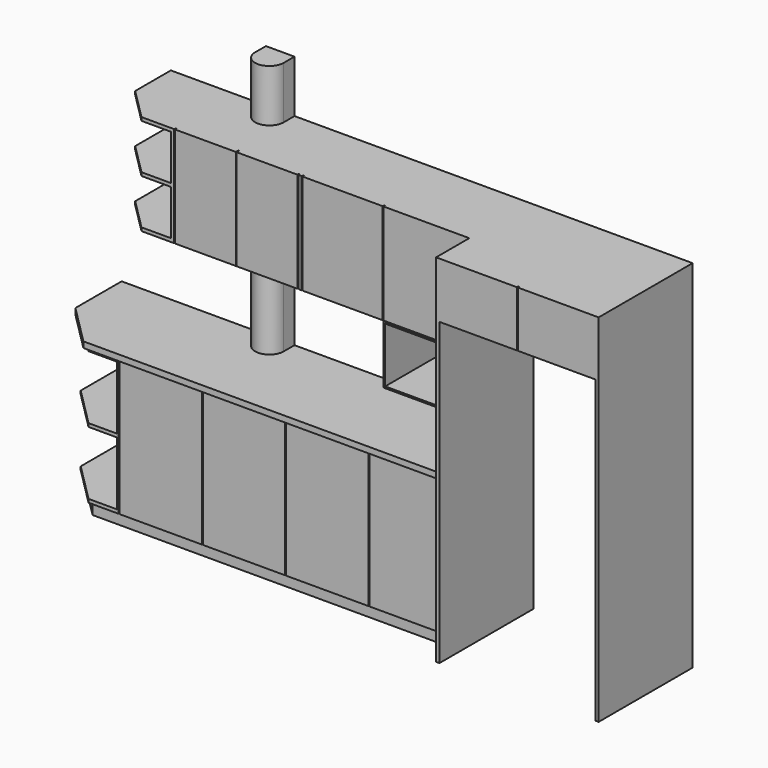
from build123d import *

# Parameters (mm, degrees)
F1_DEPTH  = 880
F3_DEPTH  = 35
F5_DEPTH  = 70
F8_DEPTH  = 2110
F9_W      = 696
F9_H      = 330
F10_DEPTH = 923
F11_W     = 20
F11_H     = 696
F12_DEPTH = 2110
F13_W     = 5
F13_H     = 149.3338942528
F14_DEPTH = 2110.001
F17_DEPTH = 595
F21_DEPTH = 267.5
F24_DEPTH = 267.5
F25_W     = 5
F25_H     = 26.3705801964
F25_H_2   = 30.4196077585
F25_H_3   = 29.1783836484
F26_DEPTH = 600
F27_W     = 508.3196067382
F27_H     = 450
F28_DEPTH = 350
F29_W     = 16.0011241957
F29_H     = 3
F30_DEPTH = 508.31961
F31_W     = 488.3196067382
F31_H     = 327
F32_DEPTH = 440
F33_W     = 560
F33_H     = 375
F34_DEPTH = 400
F35_W     = 5
F35_H     = 19.7571682371
F35_H_2   = 24.0503801033
F35_H_3   = 23.9126509987
F35_H_4   = 22.7143368684
F35_H_5   = 21.7149001546
F36_DEPTH = 880
F38_DEPTH = 2420


with BuildPart() as f1:
    # F0 (on Top) → F1 (new body)
    with BuildSketch(Plane.XY):
        Polygon((-2168, 0), (0, 0), (0, 560), (-1800, 560), (-2400, 560), (-2400, 232), align=None)
    extrude(amount=F1_DEPTH)

    # F4 (on face) → F5 (cut)
    with BuildSketch(Plane(origin=(0, 0, 0), x_dir=(1, 0, 0), z_dir=(0, 0, -1))):
        Polygon((-2400, -560), (-2380, -560), (-2380, -239.8957603676), (-2160.1042396324, -20), (0, -20), (0, 0), (-2168, 0), (-2400, -232), align=None)
    extrude(amount=-F5_DEPTH, mode=Mode.SUBTRACT)


with BuildPart() as f3:
    # F2 (on face) → F3 (new body)
    with BuildSketch(Plane.XY.offset(880)):
        Polygon((0, -20), (0, 560), (-2420, 560), (-2420, 217.6867183745), (-2182.3132816255, -20), align=None)
    extrude(amount=F3_DEPTH)


with BuildPart() as f1_1:
    add(f1.part)

    # F6: union F3
    add(f3.part)

    # F7 (on Top) → F8 (join)
    with BuildSketch(Plane.XY):
        Polygon((0, 560), (0, 20), (0, 0), (0, -20), (0, -136), (20, -136), (20, 560), align=None)
    extrude(amount=F8_DEPTH)

    # F9 (on face) → F10 (join)
    with BuildSketch(Plane.YZ.offset(20)):
        with Locations((212, 1945)):
            Rectangle(F9_W, F9_H)
    extrude(amount=F10_DEPTH)

    # F11 (on face) → F12 (join)
    with BuildSketch(Plane.XY.offset(2110)):
        with Locations((953, 212)):
            Rectangle(F11_W, F11_H)
    extrude(amount=-F12_DEPTH)

    # F13 (on face) → F14 (cut, through all)
    with BuildSketch(Plane.XY.offset(2110)):
        with Locations((481.5, -200.6669471264)):
            Rectangle(F13_W, F13_H)
    extrude(amount=-F14_DEPTH, mode=Mode.SUBTRACT)


with BuildPart() as f17:
    # F16 (on offset) → F17 (new body)
    with BuildSketch(Plane.XY.offset(2110)):
        Polygon((0, 110), (0, 560), (-2128.3196067382, 560), (-2128.3196067382, 296), (-1942.3196067382, 110), align=None)
    extrude(amount=-F17_DEPTH)


with BuildPart() as f1_2:
    add(f1_1.part)

    # F18: union F17
    add(f17.part)

    # F20 (on offset) → F21 (cut)
    with BuildSketch(Plane.XY.offset(2090)):
        Polygon((-2128.3196067382, 296), (-1942.3196067382, 110), (-1768.3196067382, 110), (-1768.3196067382, 540), (-2128.3196067382, 540), align=None)
    extrude(amount=-F21_DEPTH, mode=Mode.SUBTRACT)

    # F23 (on offset) → F24 (cut)
    with BuildSketch(Plane.XY.offset(1802.5)):
        Polygon((-1768.3196067382, 540), (-2128.3196067382, 540), (-2128.3196067382, 296), (-1942.3196067382, 110), (-1768.3196067382, 110), align=None)
    extrude(amount=-F24_DEPTH, mode=Mode.SUBTRACT)

    # F25 (on offset) → F26 (cut, symmetric)
    with BuildSketch(Plane.XY.offset(2090)):
        with Locations((-1745.8196067382, 106.8147099018)):
            Rectangle(F25_W, F25_H)
        with Locations((-1380.8196067382, 114.7901961207)):
            Rectangle(F25_W, F25_H_2)
        Polygon((-993.3196067382, 120), (-993.3196067382, 110), (-993.3196067382, 91.5266275406), (-988.3196067382, 91.5266275406), (-988.3196067382, 120), align=None)
        Polygon((-1013.3196067382, 120), (-1018.3196067382, 120), (-1018.3196067382, 93.692086637), (-1013.3196067382, 93.692086637), (-1013.3196067382, 110), align=None)
        with Locations((-510.8196067382, 105.4108081758)):
            Rectangle(F25_W, F25_H_3)
    extrude(amount=F26_DEPTH, both=True, mode=Mode.SUBTRACT)

    # F27 (on face) → F28 (join)
    with BuildSketch(Plane(origin=(0, 0, 1515), x_dir=(1, 0, 0), z_dir=(0, 0, -1))):
        with Locations((-254.1598033691, -335)):
            Rectangle(F27_W, F27_H)
    extrude(amount=F28_DEPTH)

    # F29 (on face) → F30 (cut)
    with BuildSketch(Plane(origin=(-508.3196067382, 0, 0), x_dir=(0, -1, 0), z_dir=(-1, 0, 0))):
        with Locations((-111.9994379021, 1513.5)):
            Rectangle(F29_W, F29_H)
    extrude(amount=-F30_DEPTH, mode=Mode.SUBTRACT)

    # F31 (on face) → F32 (cut)
    with BuildSketch(Plane.XZ.offset(-110)):
        with Locations((-254.1598033691, 1338.5)):
            Rectangle(F31_W, F31_H)
    extrude(amount=-F32_DEPTH, mode=Mode.SUBTRACT)

    # F33 (on face) → F34 (cut)
    with BuildSketch(Plane(origin=(-2400, 0, 0), x_dir=(0, -1, 0), z_dir=(-1, 0, 0))):
        with Locations((-260, 672.5)):
            Rectangle(F33_W, F33_H)
        with Locations((-260, 277.5)):
            Rectangle(F33_W, F33_H)
    extrude(amount=-F34_DEPTH, mode=Mode.SUBTRACT)

    # F35 (on face) → F36 (cut)
    with BuildSketch(Plane(origin=(0, 0, 0), x_dir=(1, 0, 0), z_dir=(0, 0, -1))):
        with Locations((-1987.5, -5.1214158814)):
            Rectangle(F35_W, F35_H)
        with Locations((-1493.75, -3.069028724)):
            Rectangle(F35_W, F35_H_2)
        with Locations((-1000, -4.7291063238)):
            Rectangle(F35_W, F35_H_3)
        with Locations((-12.5, -4.4589054305)):
            Rectangle(F35_W, F35_H_4)
        with Locations((-506.25, -5.5286136921)):
            Rectangle(F35_W, F35_H_5)
    extrude(amount=-F36_DEPTH, mode=Mode.SUBTRACT)

    # F37 (on Top) → F38 (join)
    with BuildSketch(Plane.XY):
        with BuildLine():
            Line((-1395.7138633728, 560), (-1565, 560))
            Line((-1565, 560), (-1565, 480))
            ThreePointArc((-1565, 480), (-1480.3569316864, 395.3569316864), (-1395.7138633728, 480))
            Line((-1395.7138633728, 480), (-1395.7138633728, 560))
        make_face()
    extrude(amount=F38_DEPTH)


solid = f1_2.part
